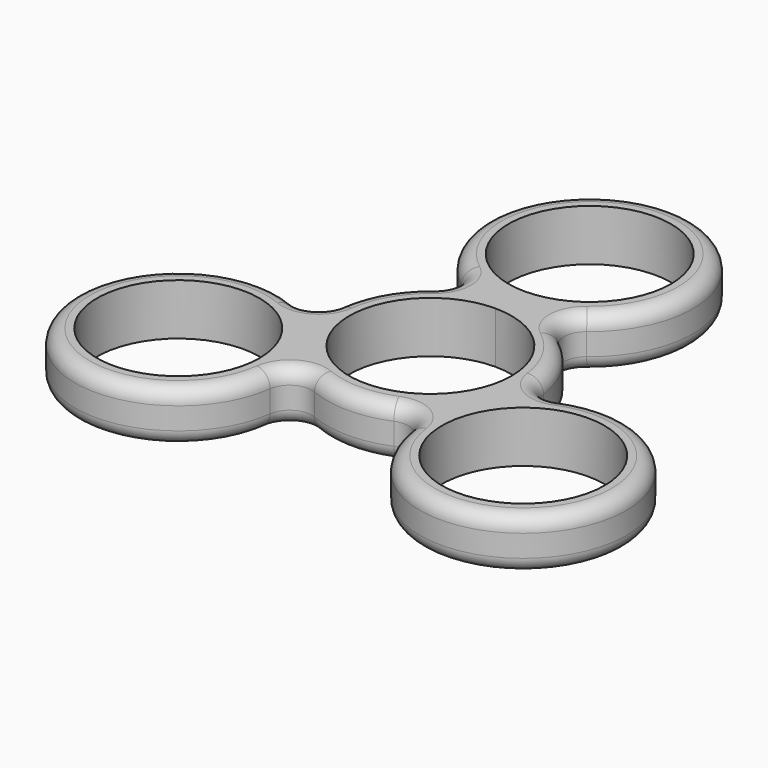
from build123d import *

# Parameters (mm, degrees)
F0_R     = 280.9875
F1_DEPTH = 177.8
F2_R     = 50.8


with BuildPart() as f1:
    # F0 (on Top) → F1 (new body)
    with BuildSketch(Plane.XY):
        with BuildLine():
            ThreePointArc((-216.733307, 405.056731), (-186.769746, 344.4875), (-216.733307, 283.918269))
            ThreePointArc((-216.733307, 283.918269), (-309.333449, 178.59375), (-354.247087, 45.737415))
            ThreePointArc((-354.247087, 45.737415), (-391.719799, -10.496405), (-459.156073, -14.831815))
            ThreePointArc((-459.156073, -14.831815), (-906.003301, -523.08125), (-242.422765, -390.224915))
            ThreePointArc((-242.422765, -390.224915), (-204.950053, -333.991095), (-137.51378, -329.655685))
            ThreePointArc((-137.51378, -329.655685), (0, -357.1875), (137.51378, -329.655685))
            ThreePointArc((137.51378, -329.655685), (204.950053, -333.991095), (242.422765, -390.224915))
            ThreePointArc((242.422765, -390.224915), (906.003301, -523.08125), (459.156073, -14.831815))
            ThreePointArc((459.156073, -14.831815), (391.719799, -10.496405), (354.247087, 45.737415))
            ThreePointArc((354.247087, 45.737415), (309.333449, 178.59375), (216.733307, 283.918269))
            ThreePointArc((216.733307, 283.918269), (186.769746, 344.4875), (216.733307, 405.056731))
            ThreePointArc((216.733307, 405.056731), (0, 1046.1625), (-216.733307, 405.056731))
        make_face()
        with Locations((-596.669853, -344.4875)):
            Circle(F0_R, mode=Mode.SUBTRACT)
        with Locations((596.669853, -344.4875)):
            Circle(F0_R, mode=Mode.SUBTRACT)
        with BuildLine():
            ThreePointArc((0, 280.9875), (198.688167, 198.688167), (280.9875, 0))
            ThreePointArc((280.9875, 0), (-198.688167, -198.688167), (0, 280.9875))
        make_face(mode=Mode.SUBTRACT)
        with BuildLine():
            ThreePointArc((280.9875, 688.975), (198.688167, 490.286833), (0, 407.9875))
            ThreePointArc((0, 407.9875), (-198.688167, 887.663167), (280.9875, 688.975))
        make_face(mode=Mode.SUBTRACT)
    extrude(amount=F1_DEPTH)

    # F2
    f2_edges = [f1.edges().sort_by_distance(p)[0] for p in [
        (-906.003301, -523.08125, 177.8),
        (-906.003301, -523.08125, 0),
    ]]
    fillet(f2_edges, radius=F2_R)


solid = f1.part
